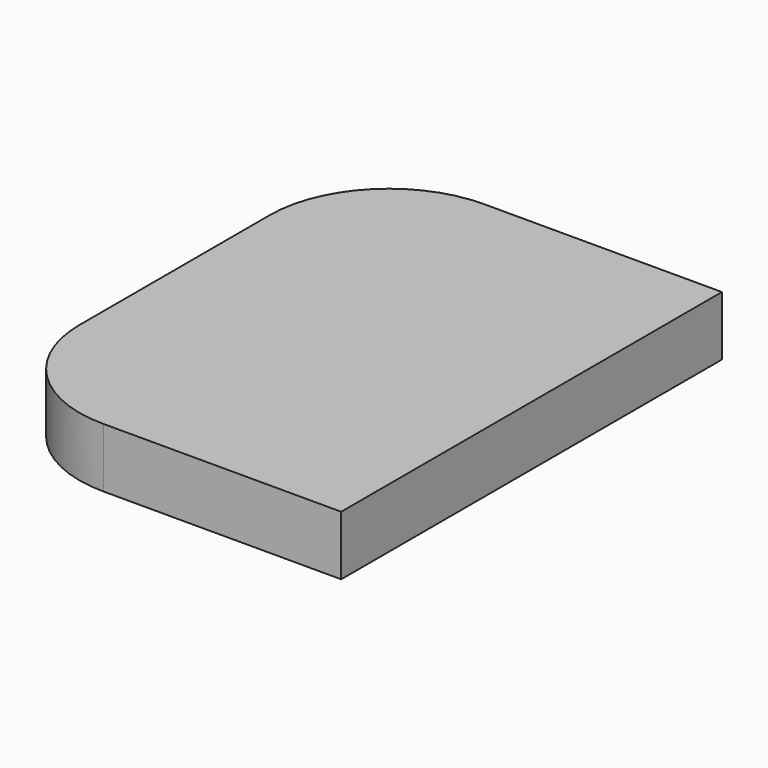
from build123d import *

# Parameters (mm, degrees)
F0_W     = 76.2
F0_H     = 101.6
F1_DEPTH = 12.7
F2_R     = 25.4


with BuildPart() as f1:
    # F0 (on Top) → F1 (new body)
    with BuildSketch(Plane.XY):
        with Locations((38.1, -50.8)):
            Rectangle(F0_W, F0_H)
    extrude(amount=-F1_DEPTH)

    # F2
    f2_edges = [f1.edges().sort_by_distance(p)[0] for p in [
        (0, 0, -6.35),
        (0, -101.6, -6.35),
    ]]
    fillet(f2_edges, radius=F2_R)


solid = f1.part
